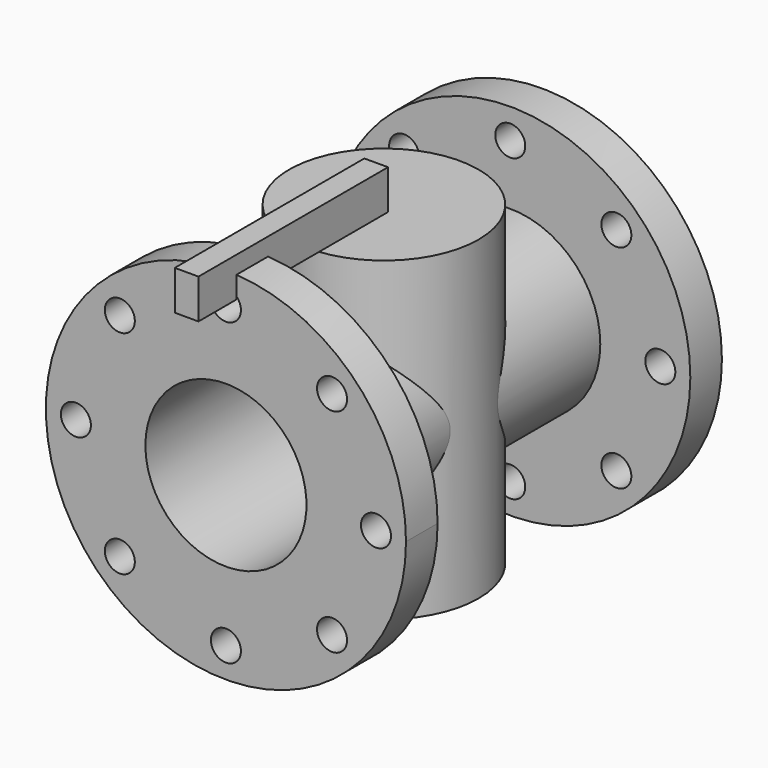
from build123d import *

# Parameters (mm, degrees)
F0_R      = 114
F1_DEPTH  = 25
F2_R      = 57
F3_DEPTH  = 200
F4_R      = 114
F5_DEPTH  = 25
F6_R      = 60
F7_DEPTH  = 100
F8_W      = 15
F8_H      = 150
F9_DEPTH  = 25
F10_R     = 9.5
F11_DEPTH = 30
F12_R     = 9.5
F13_DEPTH = 30
F14_R     = 51
F15_DEPTH = 1000


with BuildPart() as f1:
    # F0 (on Front) → F1 (new body)
    with BuildSketch(Plane.XZ):
        Circle(F0_R)
    extrude(amount=F1_DEPTH)

    # F2 (on face) → F3 (join)
    with BuildSketch(Plane.XZ.offset(25)):
        Circle(F2_R)
    extrude(amount=F3_DEPTH)

    # F4 (on face) → F5 (join)
    with BuildSketch(Plane.XZ.offset(225)):
        Circle(F4_R)
    extrude(amount=F5_DEPTH)

    # F6 (on Top) → F7 (join, symmetric)
    with BuildSketch(Plane.XY):
        with Locations((0, -125)):
            Circle(F6_R)
    extrude(amount=F7_DEPTH, both=True)

    # F8 (on face) → F9 (join)
    with BuildSketch(Plane.XY.offset(100)):
        with Locations((-0.883462, -205)):
            Rectangle(F8_W, F8_H)
    extrude(amount=F9_DEPTH)

    # F10 (on face) → F11 (cut)
    with BuildSketch(Plane.XZ.offset(250)):
        with Locations((0, 95)):
            Circle(F10_R)
        with Locations((-67.175144, 67.175144)):
            Circle(F10_R)
        with Locations((-95, 0)):
            Circle(F10_R)
        with Locations((-67.175144, -67.175144)):
            Circle(F10_R)
        with Locations((0, -95)):
            Circle(F10_R)
        with Locations((67.175144, -67.175144)):
            Circle(F10_R)
        with Locations((95, 0)):
            Circle(F10_R)
        with Locations((67.175144, 67.175144)):
            Circle(F10_R)
    extrude(amount=-F11_DEPTH, mode=Mode.SUBTRACT)

    # F12 (on face) → F13 (cut)
    with BuildSketch(Plane(origin=(0, 0, 0), x_dir=(-1, 0, 0), z_dir=(0, 1, 0))):
        with Locations((0, 95)):
            Circle(F12_R)
        with Locations((-67.175144, 67.175144)):
            Circle(F12_R)
        with Locations((-95, 0)):
            Circle(F12_R)
        with Locations((-67.175144, -67.175144)):
            Circle(F12_R)
        with Locations((0, -95)):
            Circle(F12_R)
        with Locations((67.175144, -67.175144)):
            Circle(F12_R)
        with Locations((95, 0)):
            Circle(F12_R)
        with Locations((67.175144, 67.175144)):
            Circle(F12_R)
    extrude(amount=-F13_DEPTH, mode=Mode.SUBTRACT)

    # F14 (on face) → F15 (cut)
    with BuildSketch(Plane(origin=(0, 0, 0), x_dir=(-1, 0, 0), z_dir=(0, 1, 0))):
        Circle(F14_R)
    extrude(amount=-F15_DEPTH, mode=Mode.SUBTRACT)


solid = f1.part
